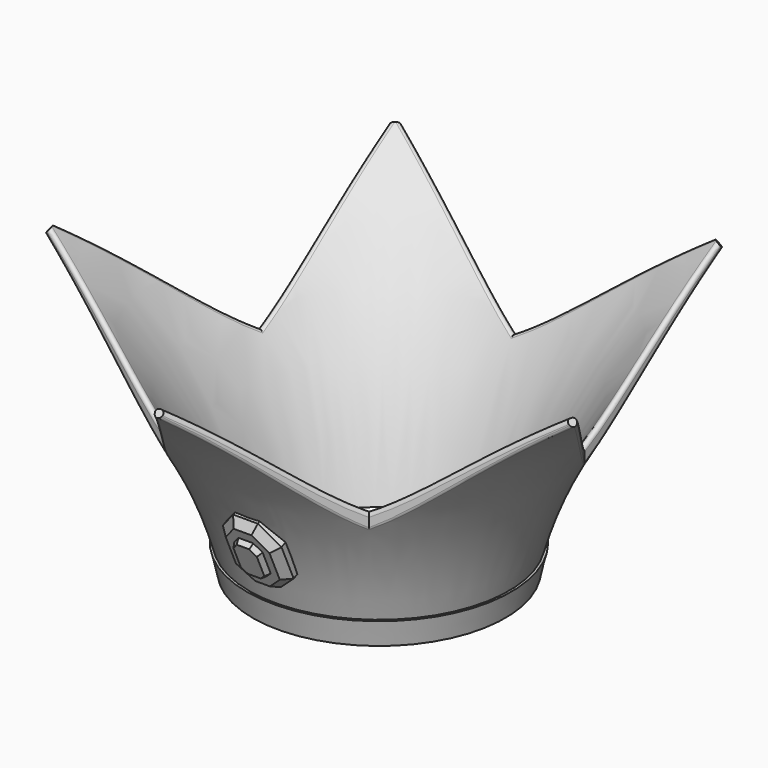
from build123d import *

# Parameters (mm, degrees)
F3_DEPTH      = 102.3750722831
F7_DEPTH      = 4.5
F7_DEPTH_BACK = 1
F8_SIZE       = 3
F13_R         = 1.3


with BuildPart() as f1:
    # F0 (on Front) → F1 (revolve)
    with BuildSketch(Plane.XZ):
        with BuildLine():
            Line((-51, 0), (-50, 0))
            ThreePointArc((-50, 0), (-51.0799410867, 5.0176873277), (-52.3128317162, 10))
            Line((-52.3128317162, 10), (-53.3128317162, 10))
            Line((-53.3128317162, 10), (-51, 0))
        make_face()
        with BuildLine():
            ThreePointArc((-52.3128317162, 10), (-51.0799410867, 5.0176873277), (-50, 0))
            Line((-50, 0), (-43.8788452021, 0))
            ThreePointArc((-43.8788452021, 0), (-67.7368274603, 57.1917982105), (-110.1475243376, 102.3740722831))
            Line((-110.1475243376, 102.3740722831), (-111.9815856218, 100))
            ThreePointArc((-111.9815856218, 100), (-74.7101268148, 59.9306822993), (-52.3128317162, 10))
        make_face()
    revolve(axis=Axis((0, 0, 50), (0, 0, 1)))

    # F2 (on Top) → F3 (cut, through all)
    with BuildSketch(Plane.XY):
        with BuildLine():
            ThreePointArc((-106.1917997163, -35.5552695305), (-65.8237489773, -90.59861803), (-1, -111.9815856218))
            Line((-1, -111.9815856218), (-40.6796921539, -55.9907928109))
            Line((-40.6796921539, -55.9907928109), (-106.1917997163, -35.5552695305))
        make_face()
        with BuildLine():
            Line((40.6796921539, -55.9907928109), (1, -111.9815856218))
            ThreePointArc((1, -111.9815856218), (65.8237489773, -90.59861803), (106.1917997163, -35.5552695305))
            Line((106.1917997163, -35.5552695305), (40.6796921539, -55.9907928109))
        make_face()
        with BuildLine():
            Line((65.8211245568, 21.3865797967), (106.8098337051, -33.6531564979))
            ThreePointArc((106.8098337051, -33.6531564979), (110.6844319568, -17.0244541992), (111.9860505526, 0))
            ThreePointArc((111.9860505526, 0), (100.0063045974, 50.3945885899), (66.6301415512, 90.0072205728))
            Line((66.6301415512, 90.0072205728), (65.8211245568, 21.3865797967))
        make_face()
        with BuildLine():
            ThreePointArc((-66.6301415512, 90.0072205728), (-106.5050631123, 34.6055927537), (-106.8098337051, -33.6531564979))
            Line((-106.8098337051, -33.6531564979), (-65.8211245568, 21.3865797967))
            Line((-65.8211245568, 21.3865797967), (-66.6301415512, 90.0072205728))
        make_face()
        with BuildLine():
            ThreePointArc((65.0121075625, 91.1827910774), (0, 111.9860505526), (-65.0121075625, 91.1827910774))
            Line((-65.0121075625, 91.1827910774), (0, 69.2084260284))
            Line((0, 69.2084260284), (65.0121075625, 91.1827910774))
        make_face()
    extrude(amount=F3_DEPTH, mode=Mode.SUBTRACT)

    # F6 (on offset) → F7 (join, two sides)
    with BuildSketch(Plane(origin=(0, -37.4759461764, -16.8590412816), x_dir=(1, 0, 0), z_dir=(0, -0.9119682569, -0.4102607688))) as f7_sk:
        Polygon((5, 69.5205855144), (-5, 69.5205855144), (-11.8336126953, 61.3277276424), (-11.8336126953, 46.3277276424), (-4.174547732, 38.9007560881), (0, 38.9007560881), (4.174547732, 38.9007560881), (11.8336126953, 46.3277276424), (11.8336126953, 61.3277276424), align=None)
    extrude(amount=F7_DEPTH)
    extrude(f7_sk.sketch, amount=-F7_DEPTH_BACK)

    # F8
    f8_edges = [f1.edges().sort_by_distance(p)[0] for p in [
        (0, -70.101372, 44.695352),
        (-8.416806, -68.420768, 40.959539),
        (8.416806, -68.420768, 40.959539),
        (11.833613, -63.663208, 30.383964),
        (8.00408, -59.062755, 20.157621),
        (-8.00408, -59.062755, 20.157621),
        (0, -57.539257, 16.77104),
        (-11.833613, -63.663208, 30.383964),
    ]]
    chamfer(f8_edges, length=F8_SIZE)

    # F9 (on face) → F12 section 0
    with BuildSketch(Plane(origin=(0, -41.5798033324, -18.7052147412), x_dir=(1, 0, 0), z_dir=(0, -0.9119682569, -0.4102607688))):
        Polygon((0, 62.4668285057), (-3, 62.4668285057), (-5.7159412472, 59.2106708013), (-5.7159412472, 49.2106708013), (-3, 46.5770309924), (0, 46.5770309924), (3, 46.5770309924), (5.7159412472, 49.2106708013), (5.7159412472, 59.2106708013), (3, 62.4668285057), align=None)
    # F11 (on offset) → F12 section 1
    with BuildSketch(Plane(origin=(0, -43.4037398461, -19.5257362788), x_dir=(1, 0, 0), z_dir=(0, -0.9119682569, -0.4102607688))):
        Polygon((0, 61.4668285057), (-2.5318985832, 61.4668285057), (-4.7159412472, 58.8483670959), (-4.7159412472, 49.6339247538), (-2.594769404, 47.5770309924), (0, 47.5770309924), (2.594769404, 47.5770309924), (4.7159412472, 49.6339247538), (4.7159412472, 58.8483670959), (2.5318985832, 61.4668285057), align=None)
    loft()

    # F13 (call 1 of 10: OpenCascade refuses the feature's edges together)
    f13_edges = [f1.edges().sort_by_distance(p)[0] for p in [
        (20.88606, -83.920978, 75.611896),
        (73.359446, -45.796832, 75.611896),
    ]]
    fillet(f13_edges, radius=F13_R)

    # F13#2 (call 2 of 10)
    f13_2_edges = [f1.edges().sort_by_distance(p)[0] for p in [
        (-20.88606, -83.920978, 75.611896),
        (-73.359446, -45.796832, 75.611896),
    ]]
    fillet(f13_2_edges, radius=F13_R)

    # F13#3 (call 3 of 10)
    f13_3_edges = [f1.edges().sort_by_distance(p)[0] for p in [
        (-21.399849, -83.195986, 80.606332),
        (-72.511168, -46.06144, 80.606331),
    ]]
    fillet(f13_3_edges, radius=F13_R)

    # F13#4 (call 4 of 10)
    f13_4_edges = [f1.edges().sort_by_distance(p)[0] for p in [
        (21.399849, -83.195986, 80.606331),
        (72.511168, -46.06144, 80.606332),
    ]]
    fillet(f13_4_edges, radius=F13_R)

    # F13#5 (call 5 of 10)
    f13_5_edges = [f1.edges().sort_by_distance(p)[0] for p in [
        (-94.04275, -16.509487, 85.427904),
        (-73.978219, 10.433214, 59.930942),
        (-66.224691, 55.616979, 75.611896),
    ]]
    fillet(f13_5_edges, radius=F13_R)

    # F13#6 (call 6 of 10)
    f13_6_edges = [f1.edges().sort_by_distance(p)[0] for p in [
        (-93.449294, -15.712592, 89.53342),
        (-73.970542, 10.443523, 67.170751),
        (-66.214215, 54.728451, 80.606331),
    ]]
    fillet(f13_6_edges, radius=F13_R)

    # F13#7 (call 7 of 10)
    f13_7_edges = [f1.edges().sort_by_distance(p)[0] for p in [
        (85.737002, -5.356508, 80.606331),
        (66.214215, 54.728451, 80.606332),
    ]]
    fillet(f13_7_edges, radius=F13_R)

    # F13#8 (call 8 of 10)
    f13_8_edges = [f1.edges().sort_by_distance(p)[0] for p in [
        (86.267741, -6.069185, 75.611896),
        (66.224691, 55.616979, 75.611896),
    ]]
    fillet(f13_8_edges, radius=F13_R)

    # F13#10 (call 9 of 10)
    f13_10_edges = [f1.edges().sort_by_distance(p)[0] for p in [
        (31.588532, 79.885482, 80.606331),
        (-31.588532, 79.885482, 80.606332),
    ]]
    fillet(f13_10_edges, radius=F13_R)

    # F13#9 (call 10 of 10)
    f13_9_edges = [f1.edges().sort_by_distance(p)[0] for p in [
        (32.430336, 80.170016, 75.611896),
        (-32.430336, 80.170016, 75.611896),
    ]]
    fillet(f13_9_edges, radius=F13_R)


with BuildPart() as f15:
    # F14 (on Front) → F15 (revolve)
    with BuildSketch(Plane.XZ):
        with BuildLine():
            Line((-2.4494897428, 15), (-2.4494897428, 0))
            Line((-2.4494897428, 0), (0, 0))
            Line((0, 0), (0, 3))
            ThreePointArc((0, 3), (0.9426223692, 4.8368643264), (2.1285433743, 6.526893573))
            ThreePointArc((2.1285433743, 6.526893573), (0.8772935652, 5.8287461557), (-0.4898979486, 5.4))
            ThreePointArc((-0.4898979486, 5.4), (2.4494897428, 11), (-2.4494897428, 15))
        make_face()
    revolve(axis=Axis((-2.4494897428, 0, 7.5), (0, 0, 1)))


with BuildPart() as f16_1:
    # F16: copy of F15
    add(f15.part.moved(Location((10, 0, 0))))


with BuildPart() as f17_1:
    # F17: copy of F15
    add(f15.part.moved(Location((-10, 0, 0))))


with BuildPart() as f18_1:
    # F18: copy of F15
    add(f15.part.moved(Location((0, 10, 0))))


with BuildPart() as f19_1:
    # F19: copy of F15
    add(f15.part.moved(Location((0, -10, 0))))


solid = Compound([f1.part, f15.part, f16_1.part, f17_1.part, f18_1.part, f19_1.part])
